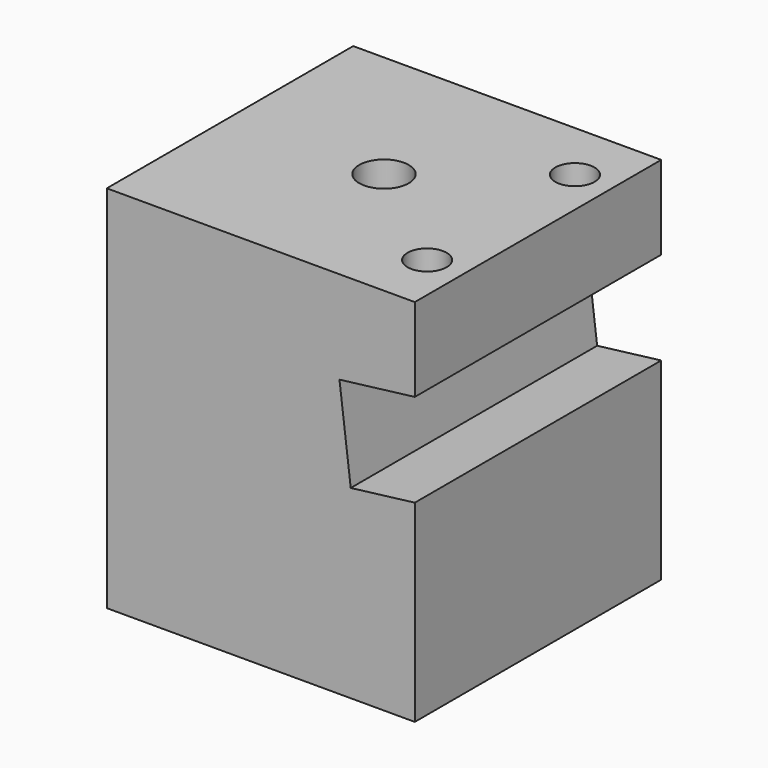
from build123d import *

# Parameters (mm, degrees)
F0_W           = 31.75
F0_H           = 31.75
F1_DEPTH       = 38.1
F3_D           = 5.1054
F3_CBORE_D     = 8.73125
F3_CBORE_DEPTH = 25.4
F5_DEPTH       = 31.751
F7_D           = 4.0386
F7_DEPTH       = 9.49325
F7_TIP         = 1.213317848


with BuildPart() as f1:
    # F0 (on Top) → F1 (new body)
    with BuildSketch(Plane.XY):
        Rectangle(F0_W, F0_H)
    extrude(amount=F1_DEPTH)

    # F3 (through all)
    with Locations(Plane(origin=(0, 0, 0), x_dir=(1, 0, 0), z_dir=(0, 0, -1))):
        with Locations((0, 0)):
            CounterBoreHole(F3_D / 2, F3_CBORE_D / 2, F3_CBORE_DEPTH)

    # F4 (on face) → F5 (cut, through all)
    with BuildSketch(Plane.XZ.offset(15.875)):
        Polygon((34.4816722517, 22.1809802753), (33.3208667558, 31.6349823697), (8.1101945041, 28.5395010472), (9.271, 19.0854989528), align=None)
    extrude(amount=-F5_DEPTH, mode=Mode.SUBTRACT)

    # F7
    with Locations(Plane.XY.offset(38.1)):
        with Locations((12.065, -9.525), (12.065, 9.525)):
            Hole(F7_D / 2, depth=F7_DEPTH)
            with Locations((0, 0, -(F7_DEPTH + F7_TIP / 2))):  # 118° drill point
                Cone(0, F7_D / 2, F7_TIP, mode=Mode.SUBTRACT)


solid = f1.part
